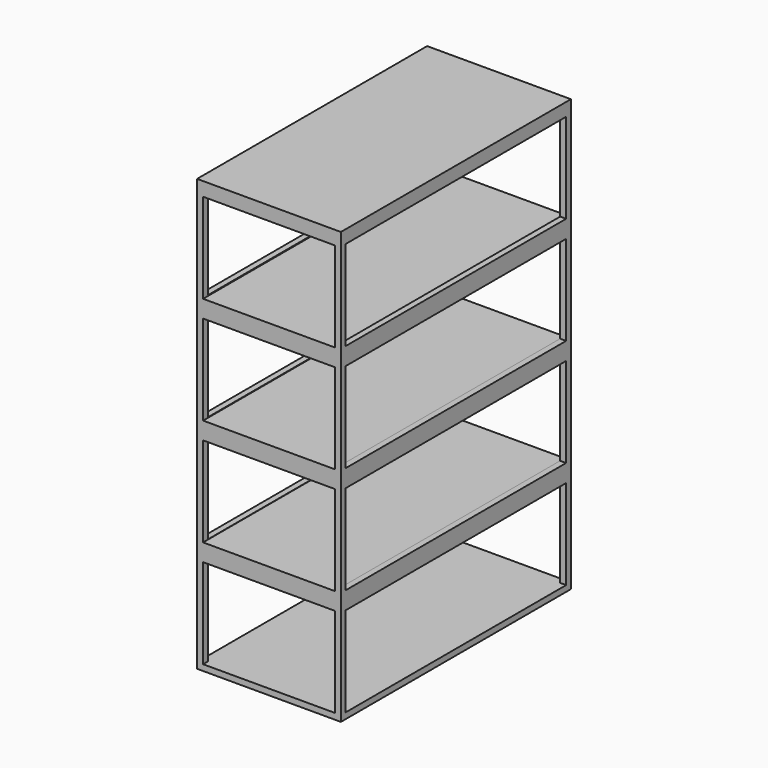
from build123d import *

# Parameters (mm, degrees)
F0_W     = 609.6
F0_H     = 1219.2
F1_DEPTH = 1828.8
F2_W     = 1168.4
F2_H     = 381
F3_DEPTH = 609.601
F4_W     = 558.8
F4_H     = 381
F5_DEPTH = 1219.201


with BuildPart() as f1:
    # F0 (on Top) → F1 (new body)
    with BuildSketch(Plane.XY):
        Rectangle(F0_W, F0_H)
    extrude(amount=F1_DEPTH)

    # F2 (on face) → F3 (cut, through all)
    with BuildSketch(Plane.YZ.offset(304.8)):
        with Locations((0, 215.9)):
            Rectangle(F2_W, F2_H)
        with Locations((0, 671.647025)):
            Rectangle(F2_W, F2_H)
        with Locations((0, 1127.394051)):
            Rectangle(F2_W, F2_H)
        with Locations((0, 1583.141076)):
            Rectangle(F2_W, F2_H)
    extrude(amount=-F3_DEPTH, mode=Mode.SUBTRACT)

    # F4 (on face) → F5 (cut, through all)
    with BuildSketch(Plane.XZ.offset(609.6)):
        with Locations((0, 215.9)):
            Rectangle(F4_W, F4_H)
        with Locations((0, 670.56)):
            Rectangle(F4_W, F4_H)
        with Locations((0, 1125.22)):
            Rectangle(F4_W, F4_H)
        with Locations((0, 1579.88)):
            Rectangle(F4_W, F4_H)
    extrude(amount=-F5_DEPTH, mode=Mode.SUBTRACT)


solid = f1.part
